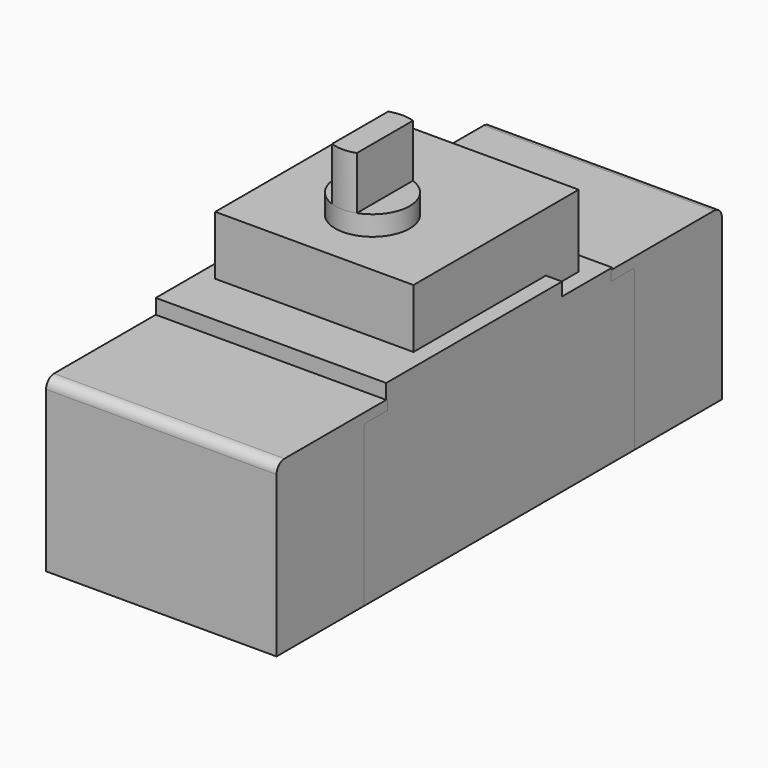
from build123d import *

# Parameters (mm, degrees)
F1_DEPTH  = 69.75
F3_DEPTH  = 60
F4_R      = 22.5
F5_DEPTH  = 12
F7_DEPTH  = 32
F10_DEPTH = 69.75


with BuildPart() as f1:
    # F0 (on Right) → F1 (new body, symmetric)
    with BuildSketch(Plane.YZ):
        Polygon((-102.5, 102), (-102.5, 0), (102.5, 0), (102.5, 102), (85.5, 102), (85.5, 104), (47.5, 104), (47.5, 112), (-85.5, 112), (-85.5, 102), align=None)
    extrude(amount=F1_DEPTH, both=True)


with BuildPart() as f3:
    # F2 (on Right) → F3 (new body, symmetric)
    with BuildSketch(Plane.YZ):
        Polygon((47.5, 104), (72.3, 104), (72.3, 147.7), (-52.7, 147.7), (-52.7, 112), (47.5, 112), align=None)
    extrude(amount=F3_DEPTH, both=True)


with BuildPart() as f5:
    # F4 (on face) → F5 (new body)
    with BuildSketch(Plane.XY.offset(147.7)):
        with Locations((0, -8.7)):
            Circle(F4_R)
    extrude(amount=F5_DEPTH)

    # F6 (on face) → F7 (join)
    with BuildSketch(Plane.XY.offset(159.7)):
        with BuildLine():
            Line((7.5, -29.9132034356), (7.5, 12.5132034356))
            ThreePointArc((7.5, 12.5132034356), (0, 13.8), (-7.5, 12.5132034356))
            Line((-7.5, 12.5132034356), (-7.5, -29.9132034356))
            ThreePointArc((-7.5, -29.9132034356), (0, -31.2), (7.5, -29.9132034356))
        make_face()
    extrude(amount=F7_DEPTH)


with BuildPart() as f10:
    # F9 (on Right) → F10 (new body, symmetric)
    with BuildSketch(Plane.YZ):
        with BuildLine():
            Line((-168.5, 0), (-102.5, 0))
            Line((-102.5, 0), (-102.5, 95))
            ThreePointArc((-102.5, 95), (-101.9142135624, 96.4142135624), (-100.5, 97))
            Line((-100.5, 97), (-84.5, 97))
            Line((-84.5, 97), (-84.5, 103))
            Line((-84.5, 103), (-162.5, 103))
            ThreePointArc((-162.5, 103), (-166.7426406871, 101.2426406871), (-168.5, 97))
            Line((-168.5, 97), (-168.5, 0))
        make_face()
    extrude(amount=F10_DEPTH, both=True)


with BuildPart() as f10b:
    # F9 (on Right) → F10, piece 2 (new body, symmetric)
    with BuildSketch(Plane.YZ):
        with BuildLine():
            ThreePointArc((168.5, 97), (166.7426406871, 101.2426406871), (162.5, 103))
            Line((162.5, 103), (84.5, 103))
            Line((84.5, 103), (84.5, 97))
            Line((84.5, 97), (100.5, 97))
            ThreePointArc((100.5, 97), (101.9142135624, 96.4142135624), (102.5, 95))
            Line((102.5, 95), (102.5, 0))
            Line((102.5, 0), (168.5, 0))
            Line((168.5, 0), (168.5, 97))
        make_face()
    extrude(amount=F10_DEPTH, both=True)


solid = Compound([f1.part, f3.part, f5.part, f10.part, f10b.part])
